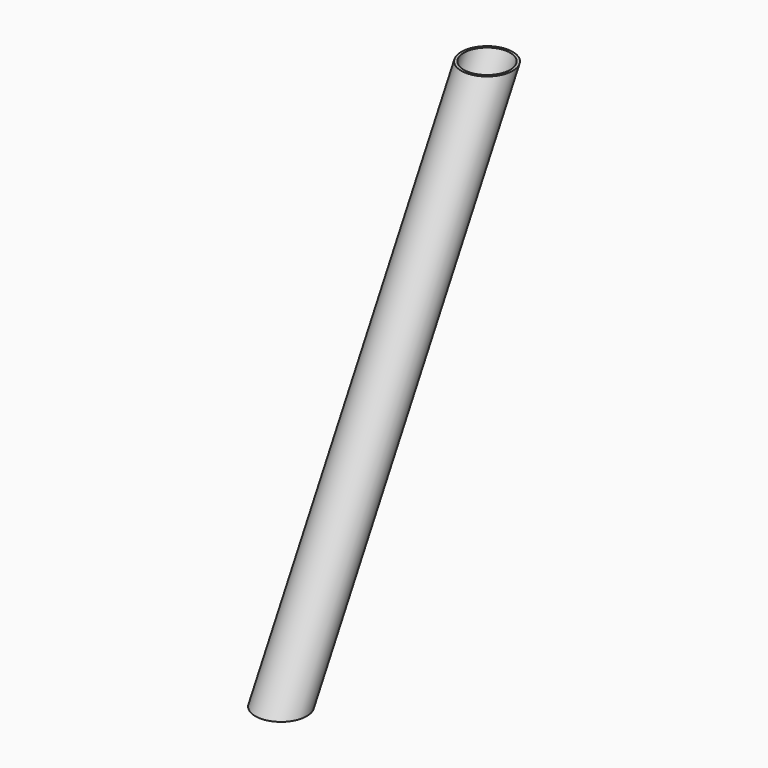
from build123d import *

# Parameters (mm, degrees)
F0_R   = 25.4
F0_R_2 = 22.86


with BuildPart() as f2:
    # F2: sweep along a path in F1
    with BuildLine(Plane.YZ) as f2_path:
        Line((0, 0), (254, 457.2))
    # F0 (on Top) → F2 (sweep)
    with BuildSketch(Plane.XY):
        Circle(F0_R)
        Circle(F0_R_2, mode=Mode.SUBTRACT)
    sweep(path=f2_path.line)


solid = f2.part
